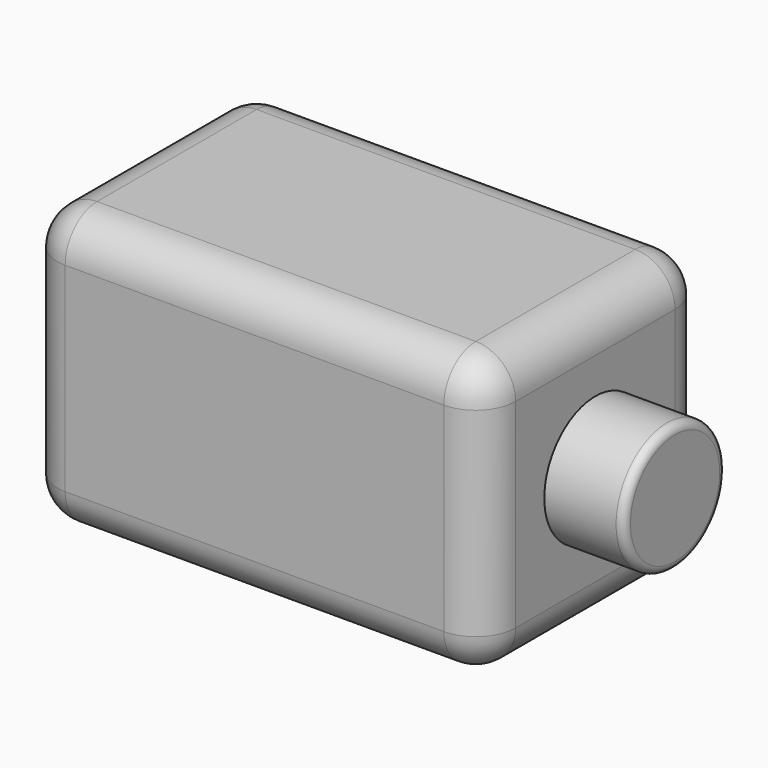
from build123d import *

# Parameters (mm, degrees)
F0_W     = 70
F0_H     = 70
F1_DEPTH = 57.5
F2_R     = 10
F3_R     = 16
F4_DEPTH = 20
F6_R     = 2


with BuildPart() as f1:
    # F0 (on Right) → F1 (new body, symmetric)
    with BuildSketch(Plane.YZ):
        Rectangle(F0_W, F0_H)
    extrude(amount=F1_DEPTH, both=True)

    # F2
    f2_edges = [f1.edges().sort_by_distance(p)[0] for p in [
        (57.5, -35, 0),
        (57.5, 0, 35),
        (0, -35, 35),
        (57.5, 35, 0),
        (0, 35, 35),
        (-57.5, 35, 0),
        (-57.5, -35, 0),
        (0, -35, -35),
        (57.5, 0, -35),
        (-57.5, 0, -35),
        (-57.5, 0, 35),
        (0, 35, -35),
    ]]
    fillet(f2_edges, radius=F2_R)


with BuildPart() as f4:
    # F3 (on Right) → F4 (new body)
    with BuildSketch(Plane.YZ):
        Circle(F3_R)
    extrude(amount=F4_DEPTH)


with BuildPart() as f4_1:
    # F5: moved
    add(f4.part.moved(Location((57.5, 0, 0))))

    # F6
    f6_edges = [f4_1.edges().sort_by_distance(p)[0] for p in [
        (77.5, -16, 0),
    ]]
    fillet(f6_edges, radius=F6_R)


solid = Compound([f1.part, f4_1.part])
